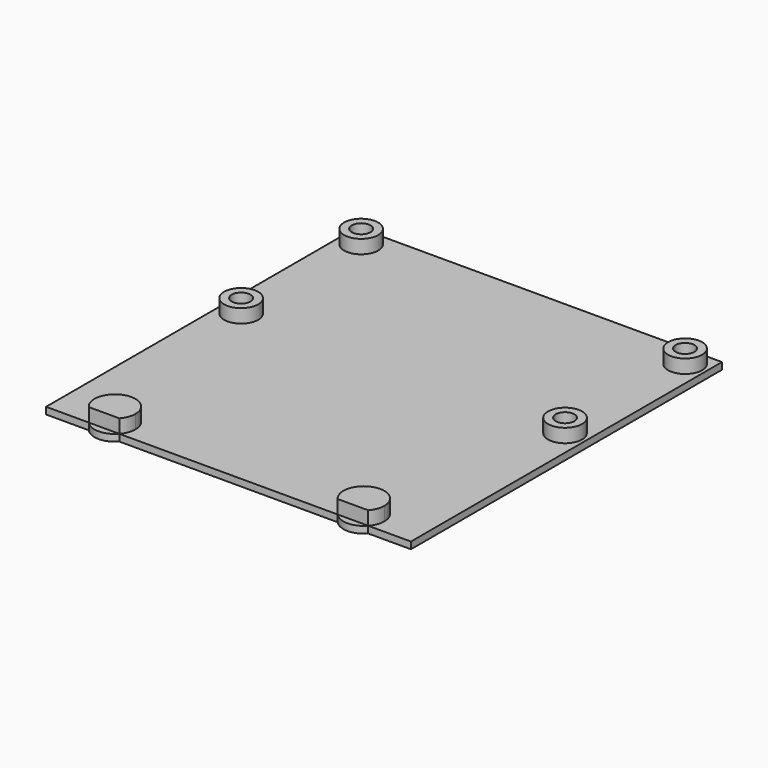
from build123d import *

# Parameters (mm, degrees)
F0_R     = 2.5
F0_R_2   = 1.375
F1_DEPTH = 3
F2_DEPTH = 1


with BuildPart() as f1:
    # F0 (on Top) → F1 (new body)
    with BuildSketch(Plane.XY):
        with Locations((-22.2848404497, 25.6728434441)):
            Circle(F0_R)
        with Locations((-22.2848404497, 25.6728434441)):
            Circle(F0_R_2, mode=Mode.SUBTRACT)
    extrude(amount=F1_DEPTH)


with BuildPart() as f1b:
    # F0 (on Top) → F1, piece 2 (new body)
    with BuildSketch(Plane.XY):
        with Locations((-22.2848404497, 3.6728434441)):
            Circle(F0_R)
        with Locations((-22.2848404497, 3.6728434441)):
            Circle(F0_R_2, mode=Mode.SUBTRACT)
    extrude(amount=F1_DEPTH)


with BuildPart() as f1c:
    # F0 (on Top) → F1, piece 3 (new body)
    with BuildSketch(Plane.XY):
        with Locations((25.2151595503, 3.6728434441)):
            Circle(F0_R)
        with Locations((25.2151595503, 3.6728434441)):
            Circle(F0_R_2, mode=Mode.SUBTRACT)
    extrude(amount=F1_DEPTH)


with BuildPart() as f1d:
    # F0 (on Top) → F1, piece 4 (new body)
    with BuildSketch(Plane.XY):
        with Locations((25.2151595503, 25.6728434441)):
            Circle(F0_R)
        with Locations((25.2151595503, 25.6728434441)):
            Circle(F0_R_2, mode=Mode.SUBTRACT)
    extrude(amount=F1_DEPTH)


with BuildPart() as f1e:
    # F0 (on Top) → F1, piece 5 (new body)
    with BuildSketch(Plane.XY):
        with BuildLine():
            ThreePointArc((-13.7848404497, -26.3271565559), (-17.855306719, -23.524639479), (-19.0209084272, -28.3271565559))
            Line((-19.0209084272, -28.3271565559), (-14.5487724722, -28.3271565559))
            ThreePointArc((-14.5487724722, -28.3271565559), (-13.9823233728, -27.3976228253), (-13.7848404497, -26.3271565559))
        make_face()
    extrude(amount=F1_DEPTH)


with BuildPart() as f1f:
    # F0 (on Top) → F1, piece 6 (new body)
    with BuildSketch(Plane.XY):
        with BuildLine():
            Line((17.4790915728, -28.3271565559), (21.9512275278, -28.3271565559))
            ThreePointArc((21.9512275278, -28.3271565559), (22.5176766272, -27.3976228253), (22.7151595503, -26.3271565559))
            ThreePointArc((22.7151595503, -26.3271565559), (18.644693281, -23.524639479), (17.4790915728, -28.3271565559))
        make_face()
    extrude(amount=F1_DEPTH)


with BuildPart() as f2:
    # F0 (on Top) → F2 (new body)
    with BuildSketch(Plane.XY):
        with BuildLine():
            Line((28.2151595503, 28.6728434441), (-25.2848404497, 28.6728434441))
            Line((-25.2848404497, 28.6728434441), (-25.2848404497, -28.3271565559))
            Line((-25.2848404497, -28.3271565559), (-19.0209084272, -28.3271565559))
            ThreePointArc((-19.0209084272, -28.3271565559), (-17.855306719, -23.524639479), (-13.7848404497, -26.3271565559))
            ThreePointArc((-13.7848404497, -26.3271565559), (-13.9823233728, -27.3976228253), (-14.5487724722, -28.3271565559))
            Line((-14.5487724722, -28.3271565559), (17.4790915728, -28.3271565559))
            ThreePointArc((17.4790915728, -28.3271565559), (18.644693281, -23.524639479), (22.7151595503, -26.3271565559))
            ThreePointArc((22.7151595503, -26.3271565559), (22.5176766272, -27.3976228253), (21.9512275278, -28.3271565559))
            Line((21.9512275278, -28.3271565559), (28.2151595503, -28.3271565559))
            Line((28.2151595503, -28.3271565559), (28.2151595503, 28.6728434441))
        make_face()
        with Locations((-22.2848404497, 3.6728434441)):
            Circle(F0_R, mode=Mode.SUBTRACT)
        with Locations((-22.2848404497, 25.6728434441)):
            Circle(F0_R, mode=Mode.SUBTRACT)
        with Locations((25.2151595503, 3.6728434441)):
            Circle(F0_R, mode=Mode.SUBTRACT)
        with Locations((25.2151595503, 25.6728434441)):
            Circle(F0_R, mode=Mode.SUBTRACT)
        with BuildLine():
            ThreePointArc((-13.7848404497, -26.3271565559), (-17.855306719, -23.524639479), (-19.0209084272, -28.3271565559))
            Line((-19.0209084272, -28.3271565559), (-14.5487724722, -28.3271565559))
            ThreePointArc((-14.5487724722, -28.3271565559), (-13.9823233728, -27.3976228253), (-13.7848404497, -26.3271565559))
        make_face()
        with BuildLine():
            Line((-14.5487724722, -28.3271565559), (-19.0209084272, -28.3271565559))
            ThreePointArc((-19.0209084272, -28.3271565559), (-16.7848404497, -29.3271565559), (-14.5487724722, -28.3271565559))
        make_face()
        with BuildLine():
            ThreePointArc((17.4790915728, -28.3271565559), (19.7151595503, -29.3271565559), (21.9512275278, -28.3271565559))
            Line((21.9512275278, -28.3271565559), (17.4790915728, -28.3271565559))
        make_face()
        with BuildLine():
            Line((17.4790915728, -28.3271565559), (21.9512275278, -28.3271565559))
            ThreePointArc((21.9512275278, -28.3271565559), (22.5176766272, -27.3976228253), (22.7151595503, -26.3271565559))
            ThreePointArc((22.7151595503, -26.3271565559), (18.644693281, -23.524639479), (17.4790915728, -28.3271565559))
        make_face()
    extrude(amount=F2_DEPTH)


solid = Compound([f1.part, f1b.part, f1c.part, f1d.part, f1e.part, f1f.part, f2.part])
